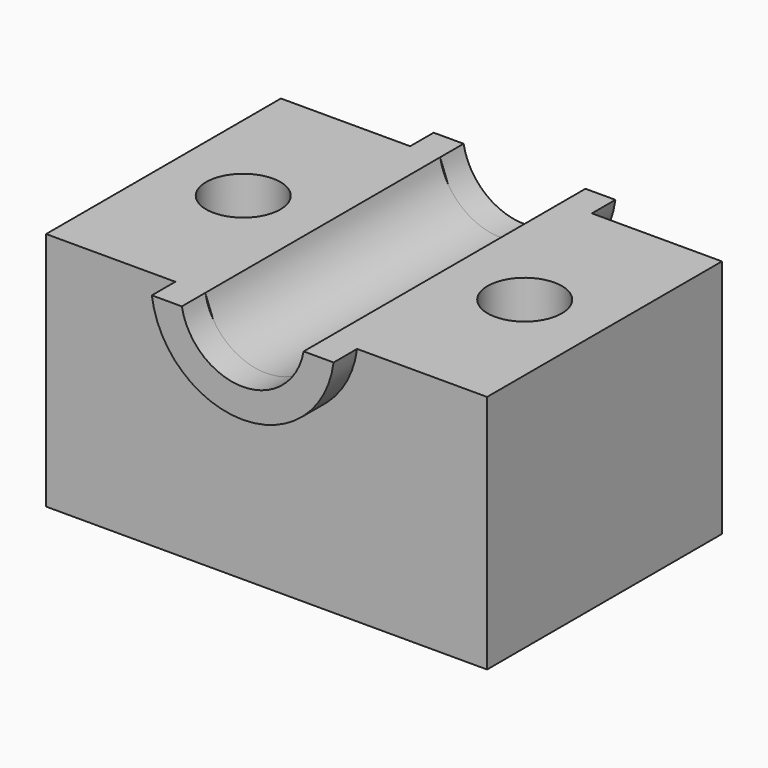
from build123d import *

# Parameters (mm, degrees)
F0_W     = 150.236324
F0_H     = 81.752524
F1_DEPTH = 50
F3_DEPTH = 166
F5_DEPTH = 10
F7_R     = 12.648051
F7_R_2   = 12.64805
F8_DEPTH = 89.9


with BuildPart() as f1:
    # F0 (on Front) → F1 (new body)
    with BuildSketch(Plane.XZ):
        Rectangle(F0_W, F0_H)
    extrude(amount=F1_DEPTH)

    # F2 (on face) → F3 (cut)
    with BuildSketch(Plane.XZ.offset(50)):
        with BuildLine():
            Line((20.626348, 40.876262), (-20.883331, 40.876262))
            ThreePointArc((-20.883331, 40.876262), (-0.128492, 23.526994), (20.626348, 40.876262))
        make_face()
    extrude(amount=-F3_DEPTH, mode=Mode.SUBTRACT)

    # F4 (on face) → F5 (join)
    with BuildSketch(Plane.XZ.offset(50)):
        with BuildLine():
            ThreePointArc((20.626348, 40.876262), (-0.128492, 23.527007), (-20.883331, 40.876262))
            Line((-20.883331, 40.876262), (-31.085527, 40.876262))
            ThreePointArc((-31.085527, 40.876262), (-0.12849, 13.638671), (30.828548, 40.876262))
            Line((30.828548, 40.876262), (20.626348, 40.876262))
        make_face()
    extrude(amount=F5_DEPTH)

    # F6: F1 across face


with BuildPart() as f1_1:
    add(f1.part)
    add(f1.part.mirror(Plane(origin=(0.005929, 0, -1.550904), x_dir=(1, 0, 0), z_dir=(0, 1, 0))))

    # F7 (on face) → F8 (cut)
    with BuildSketch(Plane.XY.offset(40.876262)):
        with Locations((-47.940791, 0)):
            Circle(F7_R)
        with Locations((47.94079, 0)):
            Circle(F7_R_2)
    extrude(amount=-F8_DEPTH, mode=Mode.SUBTRACT)


solid = f1_1.part
